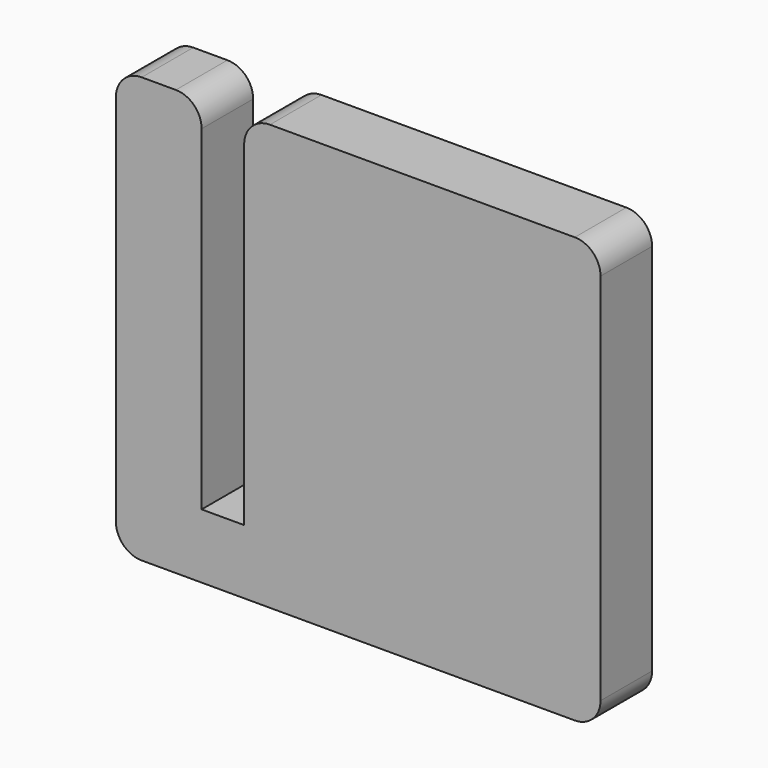
from build123d import *

# Parameters (mm, degrees)
F1_DEPTH = 5
F2_R     = 2


with BuildPart() as f1:
    # F0 (on Front) → F1 (new body)
    with BuildSketch(Plane.XZ):
        Polygon((0, -33), (0, 0), (-27.65, 0), (-27.65, -28), (-30.95, -28), (-30.95, 0), (-37.6, 0), (-37.6, -33), align=None)
    extrude(amount=-F1_DEPTH)

    # F2
    f2_edges = [f1.edges().sort_by_distance(p)[0] for p in [
        (-37.6, 2.5, 0),
        (-30.95, 2.5, 0),
        (-27.65, 2.5, 0),
        (0, 2.5, 0),
        (0, 2.5, -33),
        (-37.6, 2.5, -33),
    ]]
    fillet(f2_edges, radius=F2_R)


solid = f1.part
